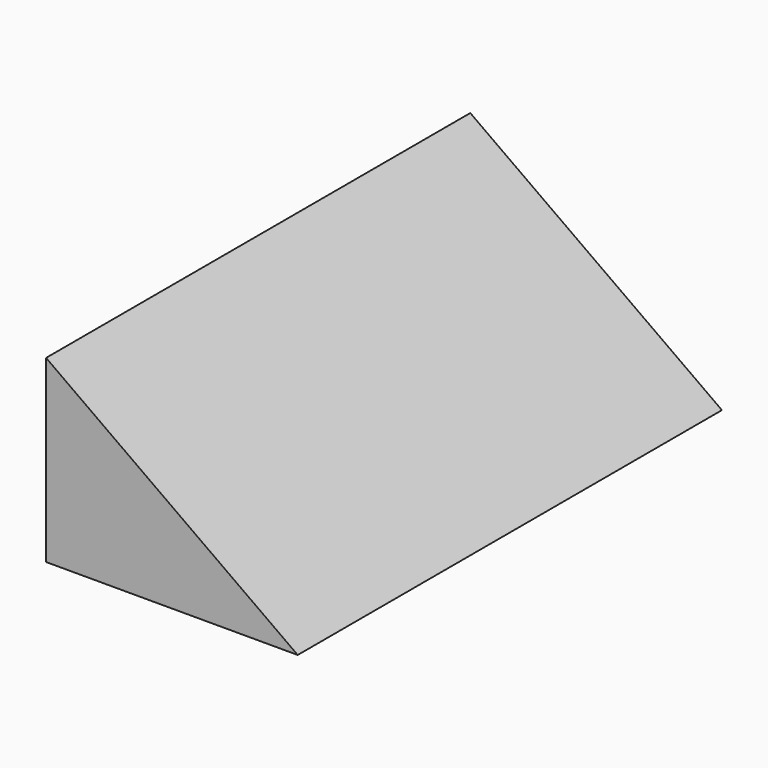
from build123d import *

# Parameters (mm, degrees)
F1_DEPTH = 295
F2_T     = -2


with BuildPart() as f1:
    # F0 (on Front) → F1 (new body)
    with BuildSketch(Plane.XZ):
        Polygon((-70, 100), (-70, 0), (70, 0), align=None)
    extrude(amount=-F1_DEPTH)

    # F2
    f2_openings = [f1.faces().sort_by_distance(p)[0] for p in [
        (0, 147.5, 0),
    ]]
    offset(amount=F2_T, openings=f2_openings)


solid = f1.part
